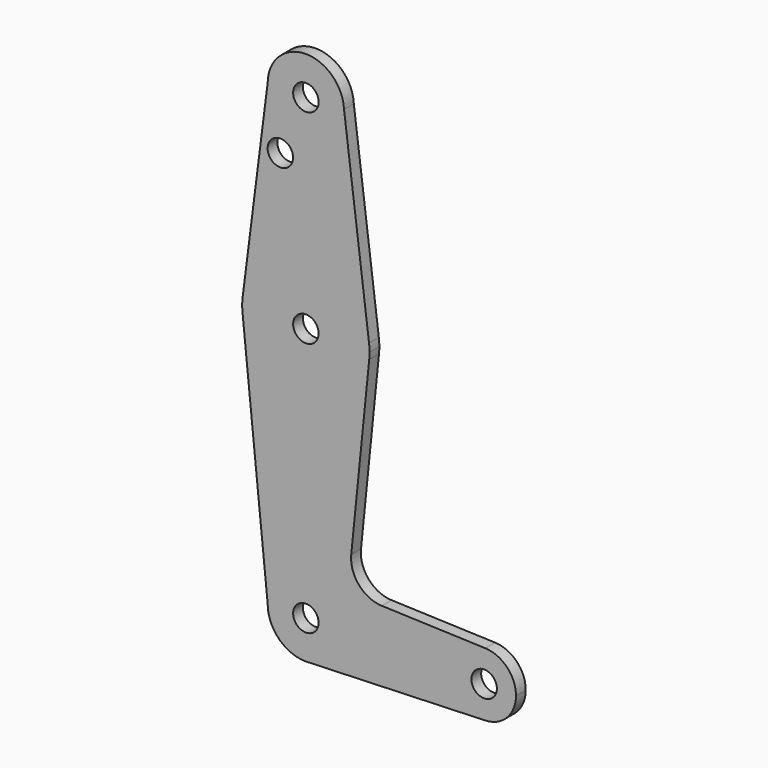
from build123d import *

# Parameters (mm, degrees)
F0_R     = 3.175
F1_DEPTH = 3.048


with BuildPart() as f1:
    # F0 (on Front) → F1 (new body)
    with BuildSketch(Plane.XZ):
        with BuildLine():
            ThreePointArc((-9.52411, 114.430191), (-0.065097, 104.775222), (9.525, 114.3))
            ThreePointArc((9.525, 114.3), (9.522054, 114.536868), (9.513219, 114.77359))
            ThreePointArc((9.513219, 114.77359), (-0.171786, 123.823451), (-9.52411, 114.430191))
        make_face()
        with Locations((0, 114.3)):
            Circle(F0_R, mode=Mode.SUBTRACT)
        with BuildLine():
            ThreePointArc((9.513219, 114.77359), (9.522054, 114.536868), (9.525, 114.3))
            ThreePointArc((9.525, 114.3), (-0.065097, 104.775222), (-9.52411, 114.430191))
            Line((-9.52411, 114.430191), (-15.692165, 65.902411))
            ThreePointArc((-15.692165, 65.902411), (0.206697, 79.373654), (15.7494, 65.492998))
            Line((15.7494, 65.492998), (9.513219, 114.77359))
        make_face()
        with Locations((-6.36596, 100.0252)):
            Circle(F0_R, mode=Mode.SUBTRACT)
        with BuildLine():
            ThreePointArc((15.875, 63.5), (15.843569, 64.498476), (15.7494, 65.492998))
            ThreePointArc((15.7494, 65.492998), (0.206697, 79.373654), (-15.692165, 65.902411))
            Line((-15.692165, 65.902411), (-15.794203, 65.09962))
            ThreePointArc((-15.794203, 65.09962), (-15.875, 63.5), (-15.794203, 61.90038))
            ThreePointArc((-15.794203, 61.90038), (0, 47.625), (15.794203, 61.90038))
            ThreePointArc((15.794203, 61.90038), (15.854788, 62.699171), (15.875, 63.5))
        make_face()
        with Locations((0, 63.5)):
            Circle(F0_R, mode=Mode.SUBTRACT)
        with BuildLine():
            Line((-15.794203, 65.09962), (-15.692165, 65.902411))
            ThreePointArc((-15.692165, 65.902411), (-15.7483, 65.501665), (-15.794203, 65.09962))
        make_face()
        with BuildLine():
            Line((11.307223, 17.59718), (15.794203, 61.90038))
            ThreePointArc((15.794203, 61.90038), (0, 47.625), (-15.794203, 61.90038))
            Line((-15.794203, 61.90038), (-9.525, 0))
            ThreePointArc((-9.525, 0), (0, 9.525), (9.525, 0))
            ThreePointArc((9.525, 0), (6.970557, -6.491299), (0.677344, -9.500886))
            Line((0.677344, -9.500886), (44.732405, -7.932475))
            ThreePointArc((44.732405, -7.932475), (36.5125, 0), (44.732405, 7.932475))
            Line((44.732405, 7.932475), (18.934103, 8.850924))
            ThreePointArc((18.934103, 8.850924), (13.224974, 11.57098), (11.307223, 17.59718))
        make_face()
        with BuildLine():
            ThreePointArc((9.525, 0), (0, 9.525), (-9.525, 0))
            ThreePointArc((-9.525, 0), (-6.735192, -6.735192), (0, -9.525))
            Line((0, -9.525), (0.677344, -9.500886))
            ThreePointArc((0.677344, -9.500886), (6.970557, -6.491299), (9.525, 0))
        make_face()
        Circle(F0_R, mode=Mode.SUBTRACT)
        with BuildLine():
            Line((0.677344, -9.500886), (0, -9.525))
            ThreePointArc((0, -9.525), (0.338886, -9.51897), (0.677344, -9.500886))
        make_face()
        with BuildLine():
            ThreePointArc((52.3875, 0), (50.161633, 5.51191), (44.732405, 7.932475))
            ThreePointArc((44.732405, 7.932475), (36.5125, 0), (44.732405, -7.932475))
            ThreePointArc((44.732405, -7.932475), (50.161633, -5.51191), (52.3875, 0))
        make_face()
        with Locations((44.45, 0)):
            Circle(F0_R, mode=Mode.SUBTRACT)
    extrude(amount=F1_DEPTH)


solid = f1.part
